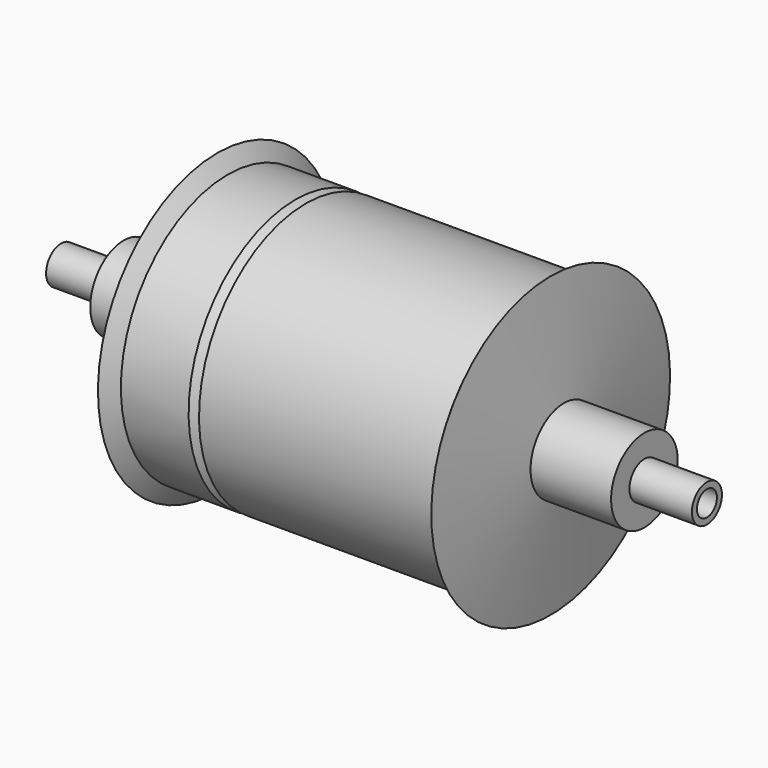
from build123d import *


with BuildPart() as f1:
    # F0 (on Front) → F1 (revolve)
    with BuildSketch(Plane.XZ):
        Polygon((62, 2.4), (62, 3.6), (50, 3.6), (50, 8), (34.535501, 8), (32, 28.65), (30, 25.65), (-15, 25.65), (-15, 24.45), (21.116947, 24.45), (31.30718, 6.8), (46.766838, 6.8), (49.30718, 2.4), align=None)
    revolve(axis=Axis((37.433878, 0, 0), (1, 0, 0)))


with BuildPart() as f3:
    # F2 (on Front) → F3 (revolve)
    with BuildSketch(Plane.XZ):
        Polygon((-17, 25.65), (-30, 25.65), (-32, 28.65), (-34.535501, 8), (-50, 8), (-50, 3.6), (-62, 3.6), (-62, 2.4), (-49.30718, 2.4), (-46.766838, 6.8), (-31.30718, 6.8), (-21.116947, 24.45), (-18.2, 24.45), align=None)
        Polygon((-15.8, 24.45), (-17, 25.65), (-18.2, 24.45), (-17, 23.25), align=None)
        Polygon((11.116947, 24.45), (-15.8, 24.45), (-17, 23.25), (11.116947, 23.25), align=None)
    revolve(axis=Axis((37.433878, 0, 0), (1, 0, 0)))


solid = Compound([f1.part, f3.part])
